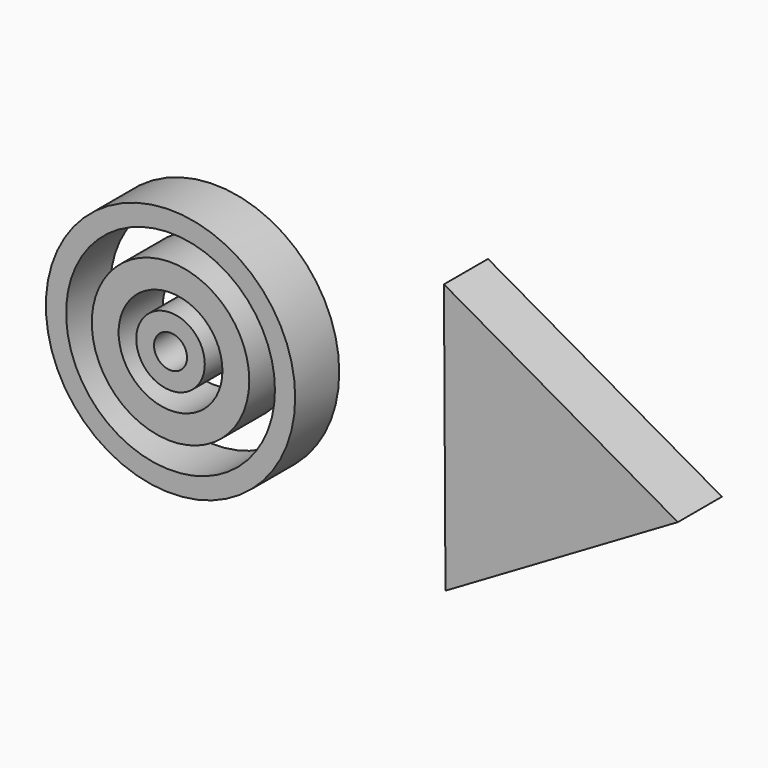
from build123d import *

# Parameters (mm, degrees)
F0_R     = 18.1632297986
F0_R_2   = 11.972296983
F2_DEPTH = 12.7
F0_R_3   = 28.7608650041
F0_R_4   = 24.0883927658
F0_R_5   = 7.905797456
F0_R_6   = 3.8073076238
F3_DEPTH = 12.7


with BuildPart() as f2:
    # F0 (on Front) → F2 (new body)
    with BuildSketch(Plane.XZ):
        with Locations((-40.1510037482, 29.3467342854)):
            Circle(F0_R)
        with Locations((-40.1510037482, 29.3467342854)):
            Circle(F0_R_2, mode=Mode.SUBTRACT)
    extrude(amount=F2_DEPTH)


with BuildPart() as f2b:
    # F0 (on Front) → F2, piece 2 (new body)
    with BuildSketch(Plane.XZ):
        with Locations((-40.1510037482, 29.3467342854)):
            Circle(F0_R_3)
        with Locations((-40.1510037482, 29.3467342854)):
            Circle(F0_R_4, mode=Mode.SUBTRACT)
    extrude(amount=F2_DEPTH)


with BuildPart() as f2c:
    # F0 (on Front) → F2, piece 3 (new body)
    with BuildSketch(Plane.XZ):
        with Locations((-40.1510037482, 29.3467342854)):
            Circle(F0_R_5)
        with Locations((-40.1510037482, 29.3467342854)):
            Circle(F0_R_6, mode=Mode.SUBTRACT)
    extrude(amount=F2_DEPTH)


with BuildPart() as f3:
    # F1 (on Front) → F3 (new body)
    with BuildSketch(Plane.XZ):
        Polygon((23.2733639794, 1.4035140155), (76.8851411623, 32.7613393785), (22.9225791991, 63.5115876794), align=None)
    extrude(amount=F3_DEPTH)


solid = Compound([f2.part, f2b.part, f2c.part, f3.part])
